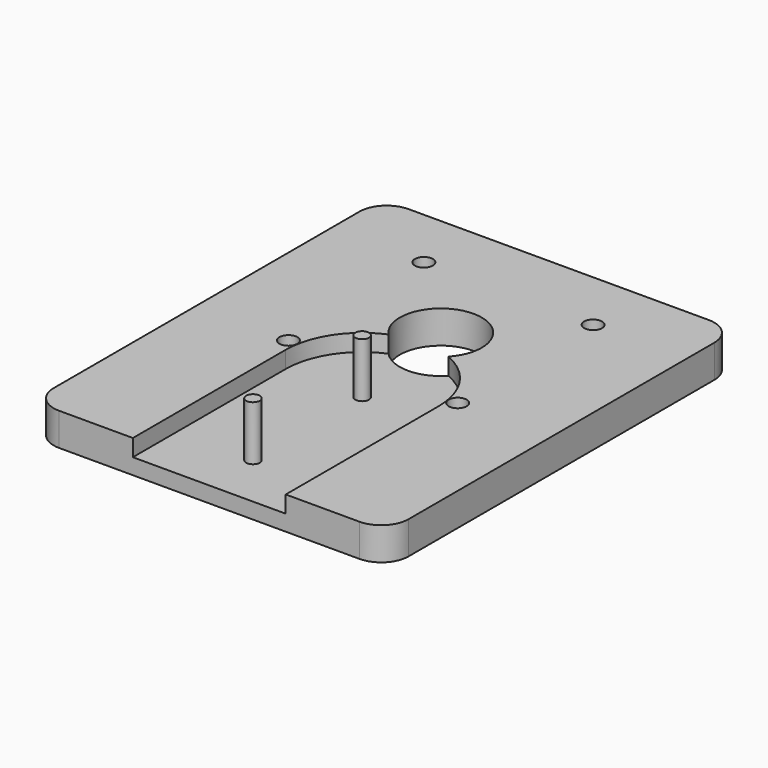
from build123d import *

# Parameters (mm, degrees)
F0_W     = 65
F0_H     = 80
F1_DEPTH = 6
F2_R     = 5
F4_DEPTH = 3.1
F5_R     = 1.25
F6_DEPTH = 10
F8_D     = 15
F9_D     = 3.3


with BuildPart() as f1:
    # F0 (on Top) → F1 (new body)
    with BuildSketch(Plane.XY):
        Rectangle(F0_W, F0_H)
    extrude(amount=F1_DEPTH)

    # F2
    f2_edges = [f1.edges().sort_by_distance(p)[0] for p in [
        (32.5, -40, 3),
        (32.5, 40, 3),
        (-32.5, 40, 3),
        (-32.5, -40, 3),
    ]]
    fillet(f2_edges, radius=F2_R)

    # F3 (on face) → F4 (cut)
    with BuildSketch(Plane.XY.offset(6)):
        with BuildLine():
            Line((14, -40), (14, -5))
            ThreePointArc((14, -5), (0, 9), (-14, -5))
            Line((-14, -5), (-14, -40))
            Line((-14, -40), (14, -40))
        make_face()
    extrude(amount=-F4_DEPTH, mode=Mode.SUBTRACT)

    # F5 (on face) → F6 (join)
    with BuildSketch(Plane.XY.offset(2.9)):
        with Locations((0, -5)):
            Circle(F5_R)
        with Locations((0, -30)):
            Circle(F5_R)
    extrude(amount=F6_DEPTH)

    # F8 (through all)
    with Locations(Plane(origin=(0, 0, 0), x_dir=(1, 0, 0), z_dir=(0, 0, -1))):
        with Locations((0, -13)):
            Hole(F8_D / 2)

    # F9 (through all)
    with Locations(Plane(origin=(0, 0, 0), x_dir=(1, 0, 0), z_dir=(0, 0, -1))):
        with Locations((15.5, -28.5), (15.5, 2.5), (-15.5, 2.5), (-15.5, -28.5)):
            Hole(F9_D / 2)


solid = f1.part
